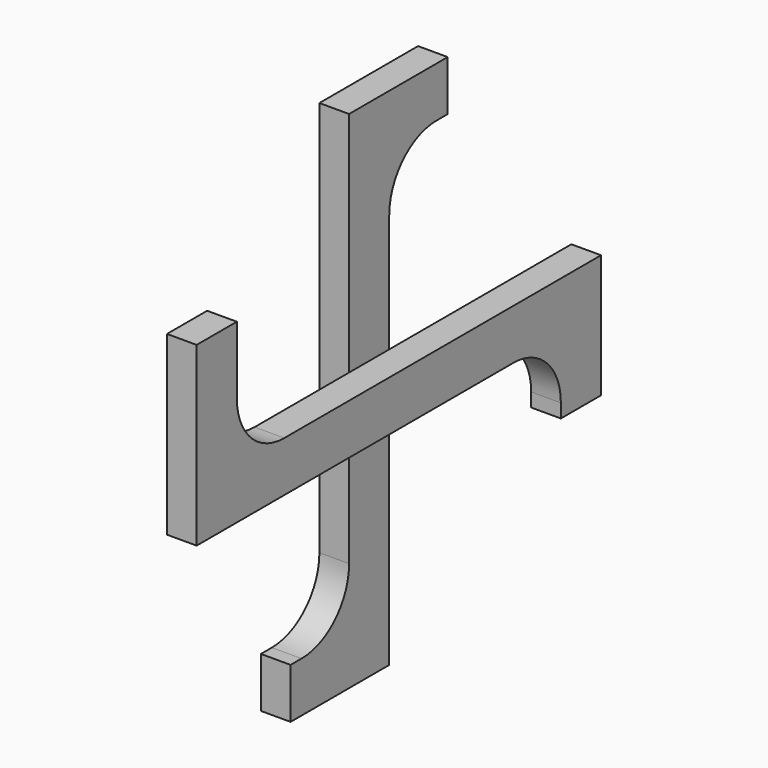
from build123d import *

# Parameters (mm, degrees)
F0_W     = 42.28605
F0_H     = 42.28605
F1_DEPTH = 25
F2_DEPTH = 25


with BuildPart() as f1:
    # F0 (on Right) → F1 (new body)
    with BuildSketch(Plane.YZ):
        with BuildLine():
            Line((-21.143025, -21.143025), (-21.143025, 21.143025))
            Line((-21.143025, 21.143025), (-120.554712, 21.143025))
            ThreePointArc((-120.554712, 21.143025), (-155.910051, 35.787686), (-170.554712, 71.143025))
            Line((-170.554712, 71.143025), (-170.554712, 127.715891))
            Line((-170.554712, 127.715891), (-212.840762, 127.715891))
            Line((-212.840762, 127.715891), (-212.840762, 21.143025))
            Line((-212.840762, 21.143025), (-212.840762, -21.143025))
            Line((-212.840762, -21.143025), (-21.143025, -21.143025))
        make_face()
        with BuildLine():
            Line((212.840762, 21.143025), (21.143025, 21.143025))
            Line((21.143025, 21.143025), (21.143025, -21.143025))
            Line((21.143025, -21.143025), (120.554712, -21.143025))
            ThreePointArc((120.554712, -21.143025), (155.910051, -35.787686), (170.554712, -71.143025))
            Line((170.554712, -71.143025), (170.554712, -82.715891))
            Line((170.554712, -82.715891), (212.840762, -82.715891))
            Line((212.840762, -82.715891), (212.840762, -21.143025))
            Line((212.840762, -21.143025), (212.840762, 21.143025))
        make_face()
        Rectangle(F0_W, F0_H)
    extrude(amount=F1_DEPTH)


with BuildPart() as f2:
    # F0 (on Right) → F2 (new body)
    with BuildSketch(Plane.YZ):
        with BuildLine():
            Line((21.143025, -21.143025), (-21.143025, -21.143025))
            Line((-21.143025, -21.143025), (-21.143025, -120.554712))
            ThreePointArc((-21.143025, -120.554712), (-35.787686, -155.910051), (-71.143025, -170.554712))
            Line((-71.143025, -170.554712), (-82.715891, -170.554712))
            Line((-82.715891, -170.554712), (-82.715891, -212.840762))
            Line((-82.715891, -212.840762), (-21.143025, -212.840762))
            Line((-21.143025, -212.840762), (21.143025, -212.840762))
            Line((21.143025, -212.840762), (21.143025, -21.143025))
        make_face()
        Rectangle(F0_W, F0_H)
        with BuildLine():
            Line((21.143025, 212.840762), (-21.143025, 212.840762))
            Line((-21.143025, 212.840762), (-21.143025, 21.143025))
            Line((-21.143025, 21.143025), (21.143025, 21.143025))
            Line((21.143025, 21.143025), (21.143025, 120.554712))
            ThreePointArc((21.143025, 120.554712), (35.787686, 155.910051), (71.143025, 170.554712))
            Line((71.143025, 170.554712), (82.715891, 170.554712))
            Line((82.715891, 170.554712), (82.715891, 212.840762))
            Line((82.715891, 212.840762), (21.143025, 212.840762))
        make_face()
    extrude(amount=-F2_DEPTH)


solid = Compound([f1.part, f2.part])
